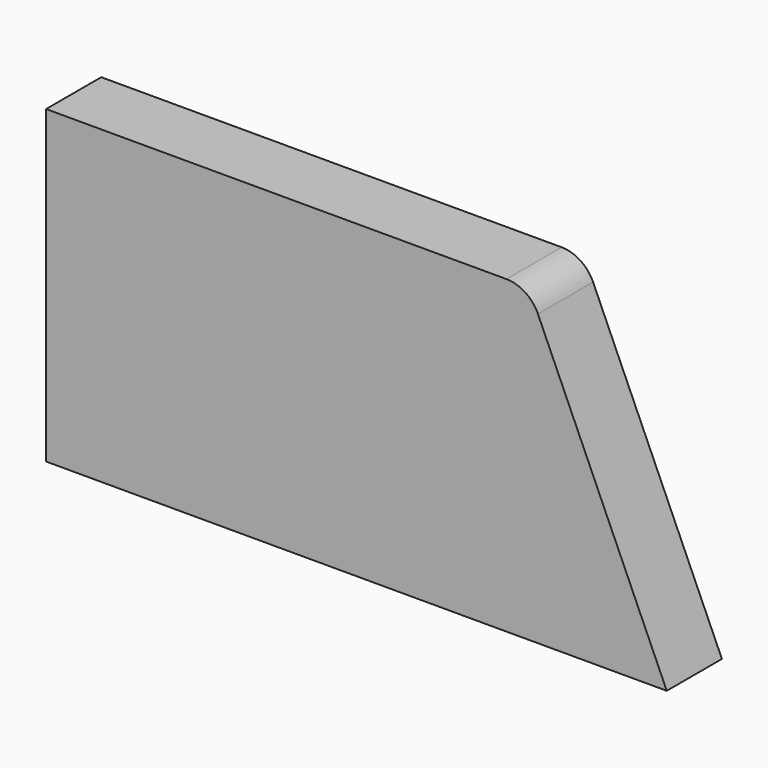
from build123d import *

# Parameters (mm, degrees)
F1_DEPTH = 12.7


with BuildPart() as f1:
    # F0 (on Front) → F1 (new body)
    with BuildSketch(Plane.XZ):
        with BuildLine():
            Line((0, 0), (114.3, 0))
            Line((114.3, 0), (90.576009, 53.378979))
            ThreePointArc((90.576009, 53.378979), (88.233507, 56.124426), (84.773306, 57.15))
            Line((84.773306, 57.15), (0, 57.15))
            Line((0, 57.15), (0, 0))
        make_face()
    extrude(amount=-F1_DEPTH)


solid = f1.part
